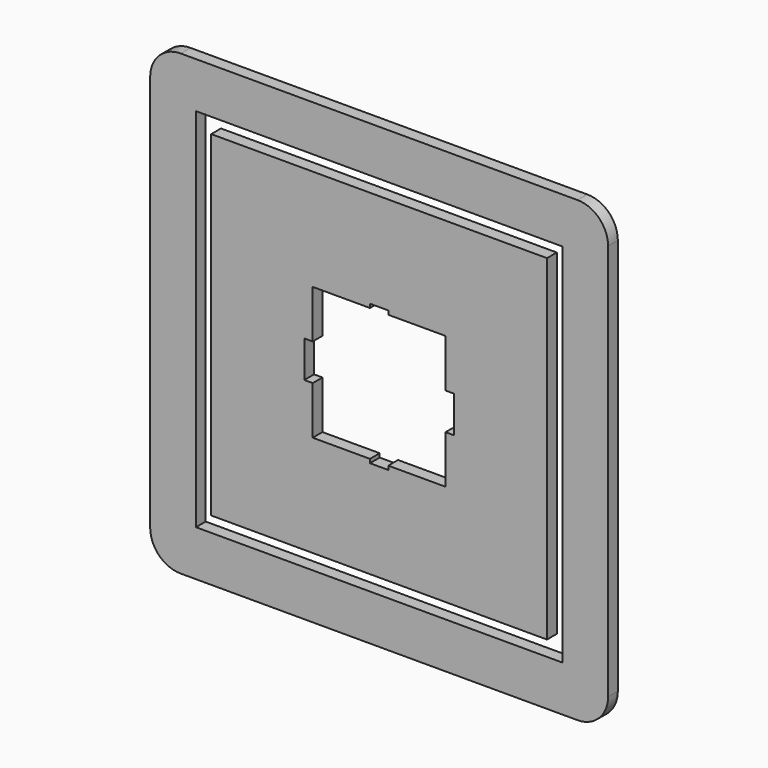
from build123d import *

# Parameters (mm, degrees)
F0_W     = 120
F0_H     = 120
F0_W_2   = 110
F0_H_2   = 110
F1_DEPTH = 4


with BuildPart() as f1:
    # F0 (on Front) → F1 (new body)
    with BuildSketch(Plane.XZ):
        with BuildLine():
            Line((-65, -75), (65, -75))
            ThreePointArc((65, -75), (72.071068, -72.071068), (75, -65))
            Line((75, -65), (75, 65))
            ThreePointArc((75, 65), (72.071068, 72.071068), (65, 75))
            Line((65, 75), (-65, 75))
            ThreePointArc((-65, 75), (-72.071068, 72.071068), (-75, 65))
            Line((-75, 65), (-75, -65))
            ThreePointArc((-75, -65), (-72.071068, -72.071068), (-65, -75))
        make_face()
        Rectangle(F0_W, F0_H, mode=Mode.SUBTRACT)
        Rectangle(F0_W_2, F0_H_2)
        Polygon((21.75, -6), (21.75, -21.75), (3, -21.75), (3, -23), (-3, -23), (-3, -21.75), (-21.75, -21.75), (-21.75, -6), (-24.5, -6), (-24.5, 6), (-21.75, 6), (-21.75, 21.75), (-3, 21.75), (-3, 23), (3, 23), (3, 21.75), (21.75, 21.75), (21.75, 6), (24.5, 6), (24.5, -6), align=None, mode=Mode.SUBTRACT)
    extrude(amount=F1_DEPTH)


solid = f1.part
